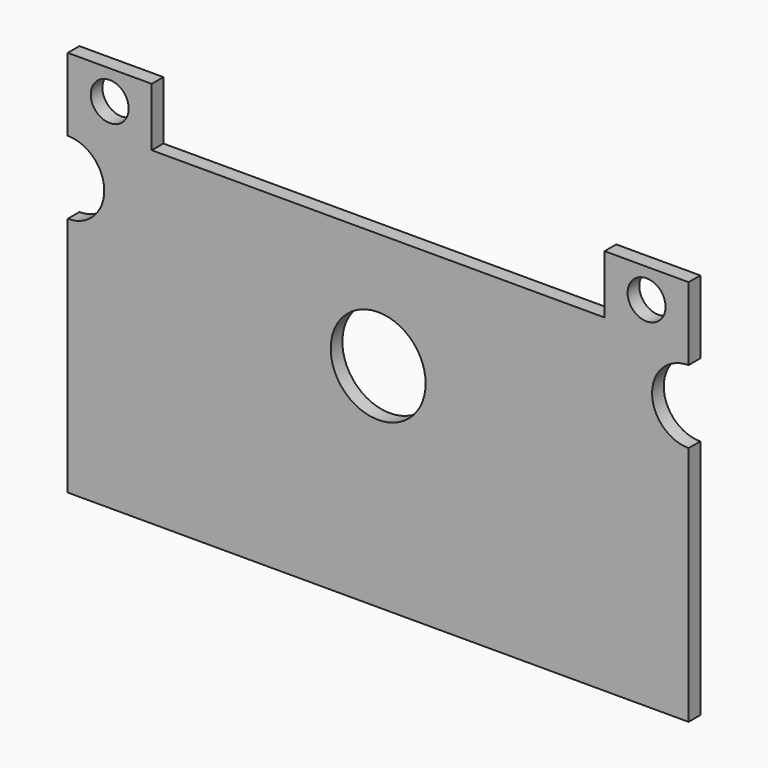
from build123d import *

# Parameters (mm, degrees)
F0_R     = 2.6
F0_R_2   = 6.5
F1_DEPTH = 2


with BuildPart() as f1:
    # F0 (on Front) → F1 (new body)
    with BuildSketch(Plane.XZ):
        with BuildLine():
            Line((16.23298, 26.377798), (-45.76702, 26.377798))
            Line((-45.76702, 26.377798), (-45.76702, 34.377798))
            Line((-45.76702, 34.377798), (-57.26702, 34.377798))
            Line((-57.26702, 34.377798), (-57.26702, 26.377798))
            Line((-57.26702, 26.377798), (-57.26702, 24.377798))
            ThreePointArc((-57.26702, 24.377798), (-52.26702, 19.377798), (-57.26702, 14.377798))
            Line((-57.26702, 14.377798), (-57.26702, -18.622202))
            Line((-57.26702, -18.622202), (27.73298, -18.622202))
            Line((27.73298, -18.622202), (27.73298, 14.377798))
            ThreePointArc((27.73298, 14.377798), (22.73298, 19.377798), (27.73298, 24.377798))
            Line((27.73298, 24.377798), (27.73298, 26.377798))
            Line((27.73298, 26.377798), (27.73298, 34.377798))
            Line((27.73298, 34.377798), (16.23298, 34.377798))
            Line((16.23298, 34.377798), (16.23298, 26.377798))
        make_face()
        with Locations((-51.51702, 30.377798)):
            Circle(F0_R, mode=Mode.SUBTRACT)
        with Locations((-14.76702, 10.454682)):
            Circle(F0_R_2, mode=Mode.SUBTRACT)
        with Locations((21.98298, 30.377798)):
            Circle(F0_R, mode=Mode.SUBTRACT)
    extrude(amount=F1_DEPTH)


solid = f1.part
